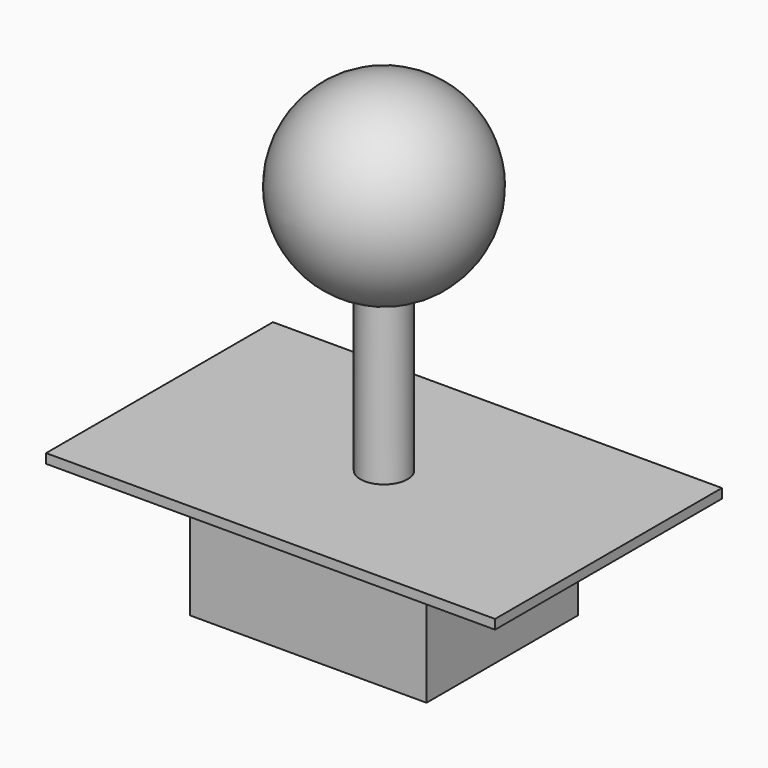
from build123d import *

# Parameters (mm, degrees)
SKETCH_W     = 95
SKETCH_H     = 60
PAD_DEPTH    = 2
SKETCH001_W  = 50
SKETCH001_H  = 40
PAD001_DEPTH = 25
SKETCH002_R  = 5
PAD002_DEPTH = 53


with BuildPart() as part:
    # Sketch → Pad (new body)
    with BuildSketch(Plane.XY):
        with Locations((47.5, 30)):
            Rectangle(SKETCH_W, SKETCH_H)
    extrude(amount=PAD_DEPTH)

    # Sketch001 (on Face5 of Pad) → Pad001 (join)
    with BuildSketch(Plane(origin=(0, 0, 0), x_dir=(1, 0, 0), z_dir=(0, 0, -1))):
        with Locations((47.5, -30)):
            Rectangle(SKETCH001_W, SKETCH001_H)
    extrude(amount=PAD001_DEPTH)

    # Sketch002 (on Face5 of Pad001) → Pad002 (join)
    with BuildSketch(Plane.XY.offset(2)):
        with Locations((47.5, 30)):
            Circle(SKETCH002_R)
    extrude(amount=PAD002_DEPTH)

    # Sketch003 (on Face13 of Pad002) → Revolution (revolve)
    with BuildSketch(Plane.XY.offset(55)):
        with BuildLine():
            ThreePointArc((47.5, 50), (27.5, 30), (47.5, 10))
            Line((47.5, 50), (47.5, 10))
        make_face()
    revolve(axis=Axis((47.5, 50, 55), (0, -1, 0)))


solid = part.part
